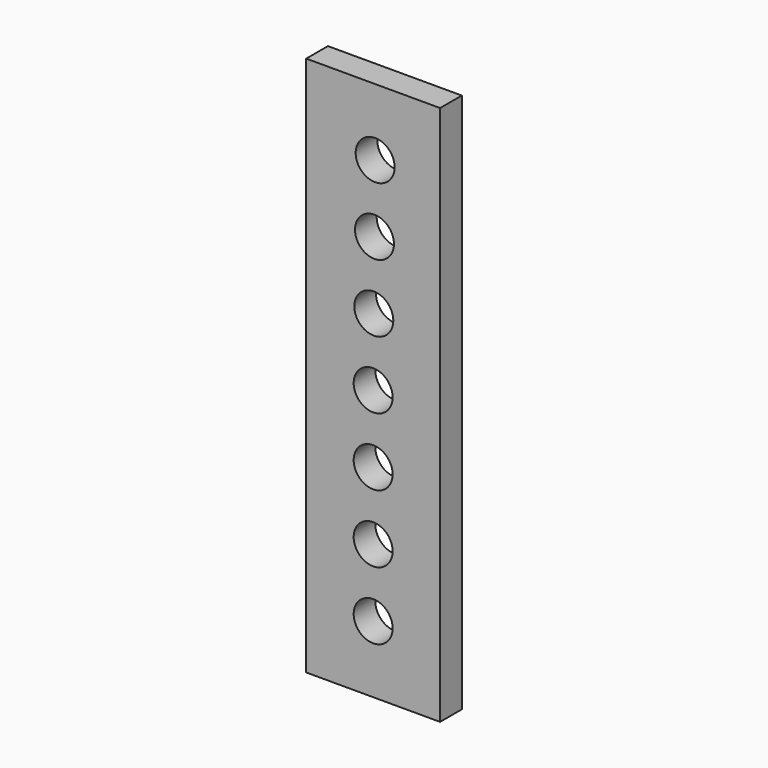
from build123d import *

# Parameters (mm, degrees)
F0_W     = 15.8
F0_H     = 63.8
F0_R     = 2.3
F1_DEPTH = 3.2


with BuildPart() as f1:
    # F0 (on Front) → F1 (new body)
    with BuildSketch(Plane.XZ):
        Rectangle(F0_W, F0_H)
        with Locations((0, -24)):
            Circle(F0_R, mode=Mode.SUBTRACT)
        with Locations((0, -16)):
            Circle(F0_R, mode=Mode.SUBTRACT)
        with Locations((0, -8)):
            Circle(F0_R, mode=Mode.SUBTRACT)
        Circle(F0_R, mode=Mode.SUBTRACT)
        with Locations((0.078428, 7.999616)):
            Circle(F0_R, mode=Mode.SUBTRACT)
        with Locations((0.156855, 15.999231)):
            Circle(F0_R, mode=Mode.SUBTRACT)
        with Locations((0.235283, 23.998847)):
            Circle(F0_R, mode=Mode.SUBTRACT)
    extrude(amount=F1_DEPTH)


solid = f1.part
